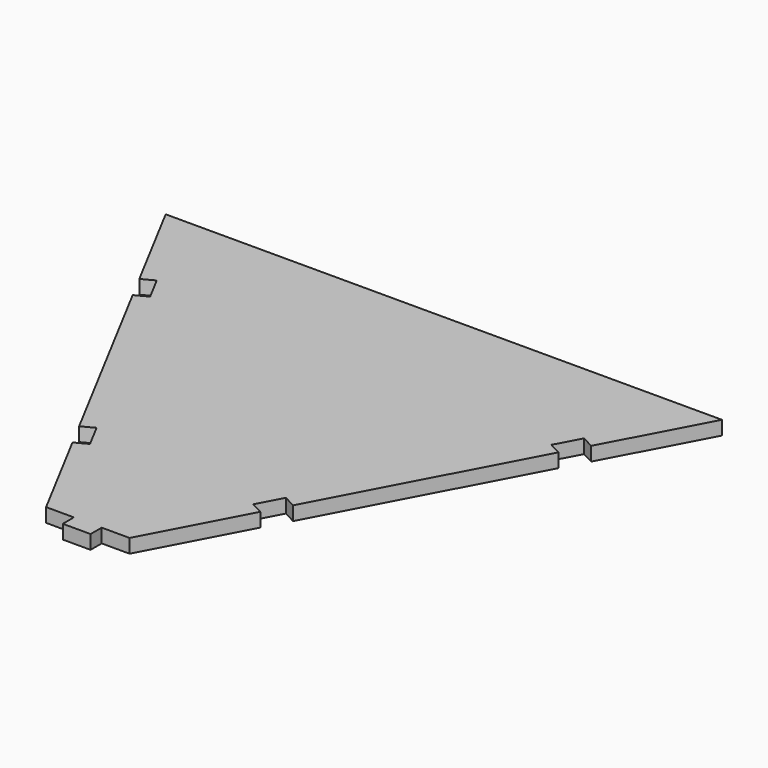
from build123d import *

# Parameters (mm, degrees)
F1_DEPTH = 3.175


with BuildPart() as f1:
    # F0 (on Top) → F1 (new body)
    with BuildSketch(Plane.XY):
        Polygon((127, 101.6), (0, 101.6), (11.916543, 79.168861), (14.720435, 80.658429), (17.699571, 75.050644), (14.895678, 73.561076), (39.079322, 28.038924), (41.883214, 29.528492), (44.86235, 23.920707), (42.058457, 22.431139), (53.975, 0), (60.325, 0), (60.325, -3.175), (63.5, -3.175), (66.675, -3.175), (66.675, 0), (73.025, 0), (84.941543, 22.431139), (82.13765, 23.920707), (85.116786, 29.528492), (87.920678, 28.038924), (112.104322, 73.561076), (109.300429, 75.050644), (112.279565, 80.658429), (115.083457, 79.168861), align=None)
    extrude(amount=F1_DEPTH)


solid = f1.part
